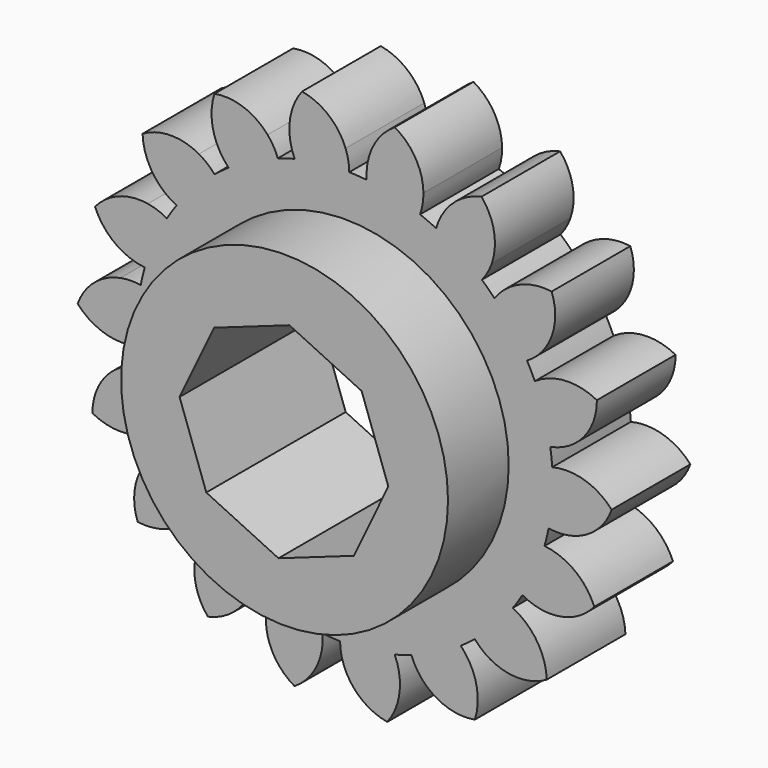
from build123d import *

# Parameters (mm, degrees)
F0_R     = 42.21774
F1_DEPTH = 25.4
F2_COUNT = 18
F3_DEPTH = 45


with BuildPart() as f1:
    # F0 (on Front) → F1 (new body)
    with BuildSketch(Plane.XZ):
        with BuildLine():
            ThreePointArc((-12.918881, 52.144495), (-33.105367, -42.308161), (53.721, 0))
            ThreePointArc((53.721, 0), (38.40509, 37.563212), (1.190523, 53.707807))
            ThreePointArc((1.190523, 53.707807), (-5.916044, 53.394253), (-12.918881, 52.144495))
        make_face()
        with Locations((0.154254, 0.462766)):
            Circle(F0_R, mode=Mode.SUBTRACT)
        with BuildLine():
            ThreePointArc((-12.918881, 52.144495), (-5.916044, 53.394253), (1.190523, 53.707807))
            ThreePointArc((1.190523, 53.707807), (0.942954, 56.310266), (0.237615, 58.827522))
            ThreePointArc((0.237615, 58.827522), (-4.155035, 64.953488), (-11.009105, 68.091091))
            ThreePointArc((-11.009105, 68.091091), (-14.1755, 60.382645), (-12.918881, 52.144495))
        make_face()
    extrude(amount=F1_DEPTH)

    # F2: F1 ×18 about axis
    f2_axis = Axis((0, 0, 0), (0, 1, 0))


with BuildPart() as f1_1:
    add(f1.part)
    for i in range(1, F2_COUNT):
        add(f1.part.rotate(f2_axis, i * 360 / F2_COUNT))

    # F0 (on Front) → F3 (join)
    with BuildSketch(Plane.XZ):
        with Locations((0.154254, 0.462766)):
            Circle(F0_R)
        Polygon((-26.953759, 1.414539), (-18.058955, 20.059416), (1.414539, 26.953759), (20.059416, 18.058955), (26.953759, -1.414539), (18.058955, -20.059416), (-1.414539, -26.953759), (-20.059416, -18.058955), align=None, mode=Mode.SUBTRACT)
    extrude(amount=F3_DEPTH)


solid = f1_1.part
